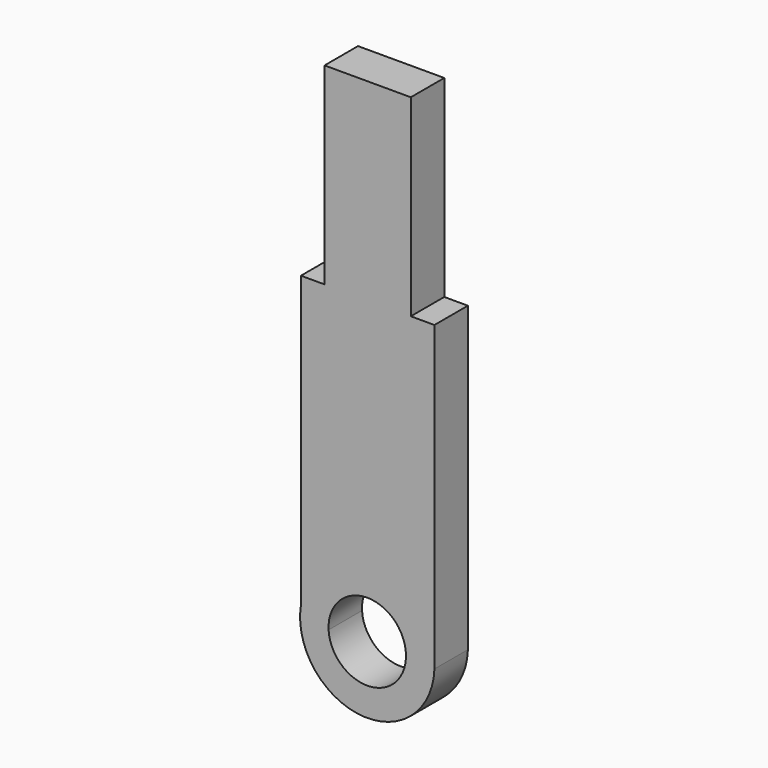
from build123d import *

# Parameters (mm, degrees)
F0_W     = 7.332219354
F0_H     = 16.389713157
F1_DEPTH = 3.556


with BuildPart() as f1:
    # F0 (on Front) → F1 (new body)
    with BuildSketch(Plane.XZ):
        with Locations((31.0518859964, 5.022654077)):
            Rectangle(F0_W, F0_H)
        with Locations((31.0518859964, -11.3670590799)):
            Rectangle(F0_W, F0_H)
        with BuildLine():
            Line((25.3776218742, -3.1722025014), (25.3776218742, -27.8178208713))
            ThreePointArc((25.3776218742, -27.8178208713), (31.379030254, -23.0253955717), (36.7261501186, -28.5383396079))
            Line((36.7261501186, -28.5383396079), (36.7261501186, -3.1722025014))
            Line((36.7261501186, -3.1722025014), (34.7179956734, -3.1722025014))
            Line((34.7179956734, -3.1722025014), (34.7179956734, -19.5619156584))
            Line((34.7179956734, -19.5619156584), (27.3857763194, -19.5619156584))
            Line((27.3857763194, -19.5619156584), (27.3857763194, -3.1722025014))
            Line((27.3857763194, -3.1722025014), (25.3776218742, -3.1722025014))
        make_face()
        with BuildLine():
            ThreePointArc((34.3040495539, -28.9137765537), (31.0170948505, -32.0183687355), (27.7301401472, -28.9137765537))
            Line((27.7301401472, -28.9137765537), (25.3776218742, -28.9137765537))
            Line((25.3776218742, -28.9137765537), (25.3776218742, -27.8178208713))
            ThreePointArc((25.3776218742, -27.8178208713), (30.4680136742, -34.4117471456), (36.7261501186, -28.9137765537))
            Line((36.7261501186, -28.9137765537), (34.3040495539, -28.9137765537))
        make_face()
        with BuildLine():
            ThreePointArc((27.7301401472, -28.9137765537), (30.9231974181, -25.4350866863), (34.3094055053, -28.7260580808))
            ThreePointArc((34.3094055053, -28.7260580808), (34.308066245, -28.8199555132), (34.3040495539, -28.9137765537))
            Line((34.3040495539, -28.9137765537), (36.7261501186, -28.9137765537))
            Line((36.7261501186, -28.9137765537), (36.7261501186, -28.5383396079))
            ThreePointArc((36.7261501186, -28.5383396079), (31.379030254, -23.0253955717), (25.3776218742, -27.8178208713))
            Line((25.3776218742, -27.8178208713), (25.3776218742, -28.9137765537))
            Line((25.3776218742, -28.9137765537), (27.7301401472, -28.9137765537))
        make_face()
    extrude(amount=F1_DEPTH)


solid = f1.part
